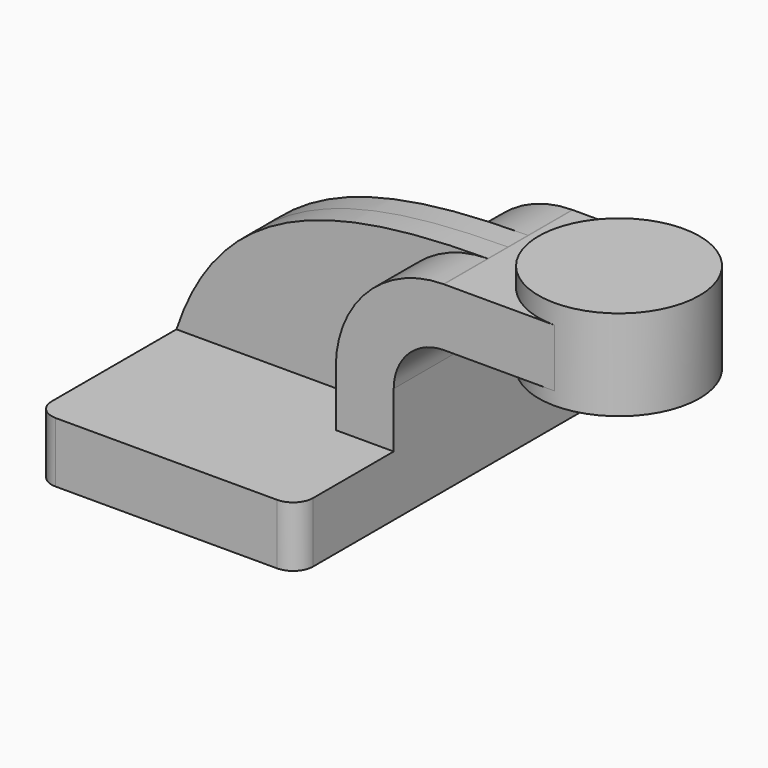
from build123d import *

# Parameters (mm, degrees)
F1_DEPTH = 63.5
F0_W     = 25.4
F0_H     = 18.2879993558
F2_DEPTH = 25.4
F3_DEPTH = 7.9375
F5_R     = 6.35


with BuildPart() as f1:
    # F0 (on Front) → F1 (new body, symmetric)
    with BuildSketch(Plane.XZ):
        Polygon((41.275, -9.525), (41.275, 9.525), (22.9870006442, 9.525), (-41.275, 9.525), (-41.275, -9.525), align=None)
    extrude(amount=F1_DEPTH, both=True)

    # F0 (on Front) → F2 (join, symmetric)
    with BuildSketch(Plane.XZ):
        with BuildLine():
            Line((22.9870006442, 9.525), (41.275, 9.525))
            Line((41.275, 9.525), (41.275, 26.98242))
            ThreePointArc((41.275, 26.98242), (45.9246798487, 38.2077401513), (57.15, 42.85742))
            Line((57.15, 42.85742), (66.675, 42.85742))
            Line((66.675, 42.85742), (66.675, 61.1454193558))
            Line((66.675, 61.1454193558), (57.15, 61.1454193558))
            ThreePointArc((57.15, 61.1454193558), (57.0620496409, 61.1453061444), (56.9740998647, 61.1449665111))
            ThreePointArc((56.9740998647, 61.1449665111), (32.931001247, 51.0770381623), (22.9870006442, 26.98242))
            Line((22.9870006442, 26.98242), (22.9870006442, 9.525))
        make_face()
        with Locations((79.375, 52.0014196779)):
            Rectangle(F0_W, F0_H)
    extrude(amount=F2_DEPTH, both=True)

    # F0 (on Front) → F4 (revolve)
    with BuildSketch(Plane.XZ):
        Polygon((92.075, 61.1454193558), (92.075, 42.85742), (92.075, 38.735), (117.475, 38.735), (117.475, 67.31), (92.075, 67.31), align=None)
    revolve(axis=Axis((92.075, 0, 53.0225), (0, 0, 1)))

    # F5
    f5_edges = [f1.edges().sort_by_distance(p)[0] for p in [
        (-41.275, -63.5, 0),
        (41.275, -63.5, 0),
        (41.275, 63.5, 0),
        (-41.275, 63.5, 0),
    ]]
    fillet(f5_edges, radius=F5_R)


with BuildPart() as f3:
    # F0 (on Front) → F3 (new body, symmetric)
    with BuildSketch(Plane.XZ):
        with BuildLine():
            Line((-41.275, 9.525), (22.9870006442, 9.525))
            Line((22.9870006442, 9.525), (22.9870006442, 26.98242))
            ThreePointArc((22.9870006442, 26.98242), (32.931001247, 51.0770381623), (56.9740998647, 61.1449665111))
            add(Edge.make_bspline(
                [(-41.275, 9.525), (-27.2030152145, 52.1123864879), (9.221613378, 61.0112480139), (56.9740998647, 61.1449665111)],
                knots=[0, 0, 0, 0, 111.003961493, 111.003961493, 111.003961493, 111.003961493], degree=3))
        make_face()
    extrude(amount=F3_DEPTH, both=True)


solid = Compound([f1.part, f3.part])
